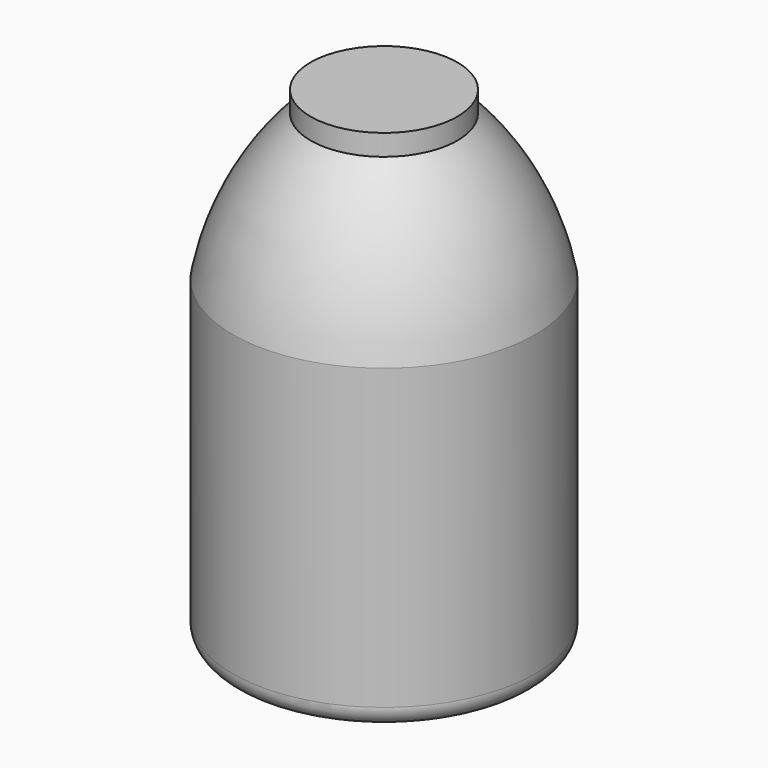
from build123d import *


with BuildPart() as f1:
    # F0 (on Front) → F1 (revolve)
    with BuildSketch(Plane.XZ):
        with BuildLine():
            Line((-25.4, 0), (0, 0))
            Line((0, 0), (0, 93.221225))
            Line((0, 93.221225), (-14.101815, 93.221225))
            Line((-14.101815, 93.221225), (-14.101815, 89.173004))
            ThreePointArc((-14.101815, 89.173004), (-23.705293, 76.334674), (-29.030138, 61.211992))
            add(Edge.make_bspline(
                [(-29.030138, 3.877344), (-29.030138, 22.988893), (-29.030138, 42.100443), (-29.030138, 61.211992)],
                knots=[0, 0, 0, 0, 57.334648, 57.334648, 57.334648, 57.334648], degree=3))
            ThreePointArc((-29.030138, 3.877344), (-28.055734, 1.151605), (-25.4, 0))
        make_face()
    revolve(axis=Axis((0, 0, 46.610612), (0, 0, -1)))


solid = f1.part
